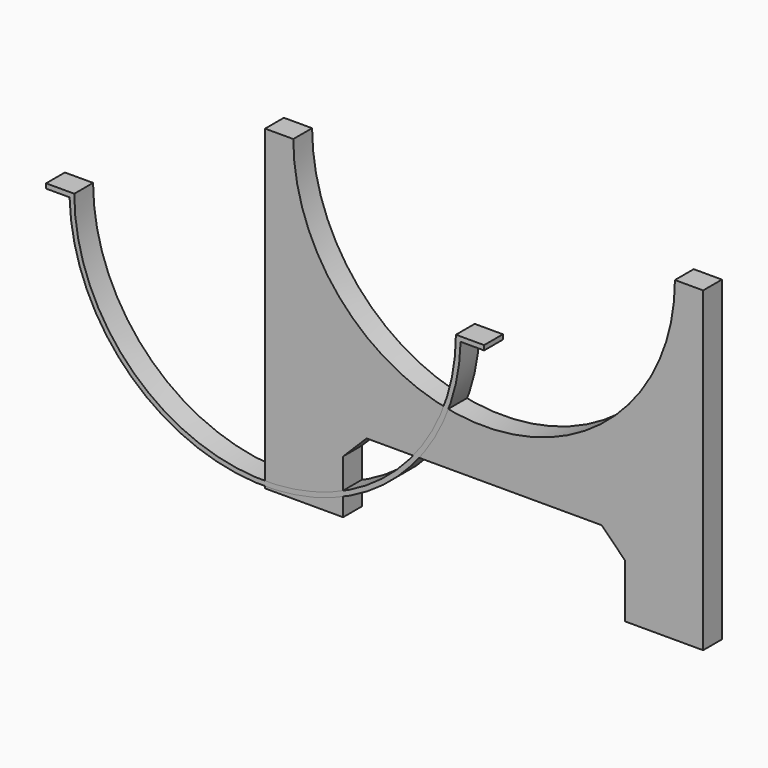
from build123d import *

# Parameters (mm, degrees)
F1_DEPTH = 25
F2_SIZE  = 25
F3_DEPTH = 25
F4_SIZE  = 25
F5_DEPTH = 7
F7_DEPTH = 25


with BuildPart() as f1:
    # F0 (on Front) → F1 (new body)
    with BuildSketch(Plane.XZ):
        with BuildLine():
            Line((0, 330), (0, 0))
            Line((0, 0), (83, 0))
            Line((83, 0), (83, 75))
            Line((83, 75), (383, 75))
            Line((383, 75), (383, 0))
            Line((383, 0), (466, 0))
            Line((466, 0), (466, 330))
            Line((466, 330), (436, 330))
            ThreePointArc((436, 330), (233, 127), (30, 330))
            Line((30, 330), (0, 330))
        make_face()
    extrude(amount=F1_DEPTH)

    # F2
    f2_edges = [f1.edges().sort_by_distance(p)[0] for p in [
        (83, -12.5, 75),
        (383, -12.5, 75),
    ]]
    chamfer(f2_edges, length=F2_SIZE)


with BuildPart() as f3:
    # F0 (on Front) → F3 (new body)
    with BuildSketch(Plane.XZ):
        with BuildLine():
            Line((0, 330), (0, 0))
            Line((0, 0), (83, 0))
            Line((83, 0), (83, 75))
            Line((83, 75), (383, 75))
            Line((383, 75), (383, 0))
            Line((383, 0), (466, 0))
            Line((466, 0), (466, 330))
            Line((466, 330), (436, 330))
            ThreePointArc((436, 330), (233, 127), (30, 330))
            Line((30, 330), (0, 330))
        make_face()
    extrude(amount=F3_DEPTH)

    # F4
    f4_edges = [f3.edges().sort_by_distance(p)[0] for p in [
        (83, -12.5, 75),
        (383, -12.5, 75),
    ]]
    chamfer(f4_edges, length=F4_SIZE)

    # F5 (add): faces of the model
    f5_faces = [f3.faces().sort_by_distance(p)[0] for p in [
        (41.5, -12.5, 0),
        (424.5, -12.5, 0),
    ]]
    extrude(f5_faces, amount=F5_DEPTH)


with BuildPart() as f7:
    # F6 (on Front) → F7 (new body)
    with BuildSketch(Plane.XZ):
        with BuildLine():
            Line((-233, 203), (-233, 198))
            Line((-233, 198), (-208, 198))
            ThreePointArc((-208, 198), (0, -5), (208, 198))
            Line((208, 198), (233, 198))
            Line((233, 198), (233, 203))
            Line((233, 203), (203, 203))
            ThreePointArc((203, 203), (0, 0), (-203, 203))
            Line((-203, 203), (-233, 203))
        make_face()
    extrude(amount=F7_DEPTH)


solid = Compound([f1.part, f3.part, f7.part])
